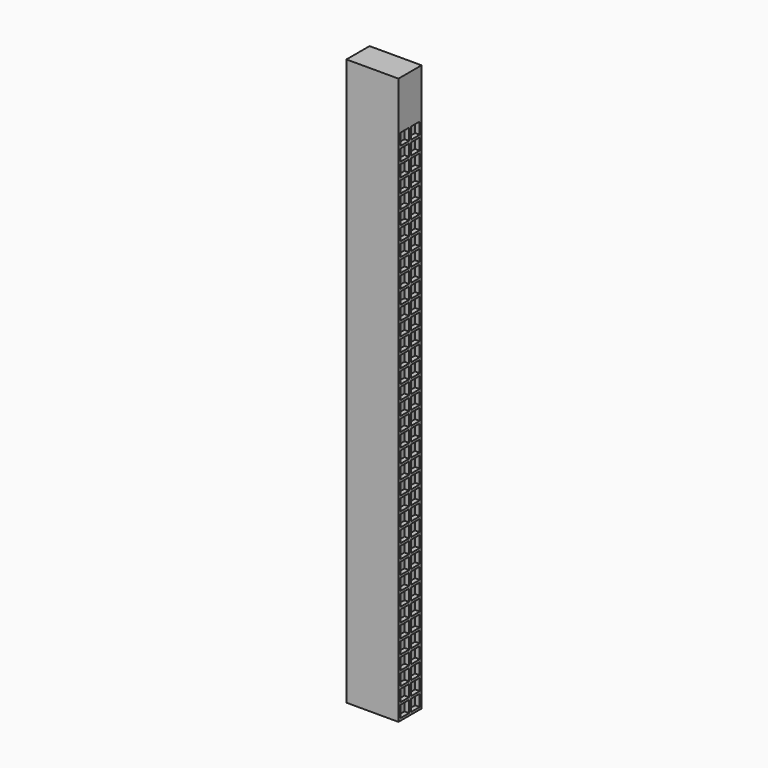
from build123d import *

# Parameters (mm, degrees)
F0_W     = 45
F0_H     = 25
F1_DEPTH = 490
F2_W     = 9.5
F2_H     = 10.108
F3_DEPTH = 4
F4_W     = 9.5
F4_H     = 10.108
F5_DEPTH = 4


with BuildPart() as f1:
    # F0 (on Top) → F1 (new body)
    with BuildSketch(Plane.XY):
        with Locations((22.5, -12.5)):
            Rectangle(F0_W, F0_H)
    extrude(amount=F1_DEPTH)

    # F2 (on face) → F3 (cut)
    with BuildSketch(Plane.YZ.offset(45)):
        with Locations((-18.25, 442.946)):
            Rectangle(F2_W, F2_H)
        with Locations((-6.75, 442.946)):
            Rectangle(F2_W, F2_H)
        with Locations((-6.75, 430.838)):
            Rectangle(F2_W, F2_H)
        with Locations((-18.25, 430.838)):
            Rectangle(F2_W, F2_H)
        with Locations((-6.75, 418.73)):
            Rectangle(F2_W, F2_H)
        with Locations((-18.25, 418.73)):
            Rectangle(F2_W, F2_H)
        with Locations((-6.75, 406.622)):
            Rectangle(F2_W, F2_H)
        with Locations((-18.25, 406.622)):
            Rectangle(F2_W, F2_H)
        with Locations((-6.75, 394.514)):
            Rectangle(F2_W, F2_H)
        with Locations((-18.25, 394.514)):
            Rectangle(F2_W, F2_H)
        with Locations((-6.75, 382.406)):
            Rectangle(F2_W, F2_H)
        with Locations((-18.25, 382.406)):
            Rectangle(F2_W, F2_H)
        with Locations((-6.75, 370.298)):
            Rectangle(F2_W, F2_H)
        with Locations((-18.25, 370.298)):
            Rectangle(F2_W, F2_H)
        with Locations((-6.75, 358.19)):
            Rectangle(F2_W, F2_H)
        with Locations((-18.25, 358.19)):
            Rectangle(F2_W, F2_H)
        with Locations((-6.75, 346.082)):
            Rectangle(F2_W, F2_H)
        with Locations((-18.25, 346.082)):
            Rectangle(F2_W, F2_H)
        with Locations((-6.75, 333.974)):
            Rectangle(F2_W, F2_H)
        with Locations((-18.25, 333.974)):
            Rectangle(F2_W, F2_H)
        with Locations((-6.75, 321.866)):
            Rectangle(F2_W, F2_H)
        with Locations((-18.25, 321.866)):
            Rectangle(F2_W, F2_H)
        with Locations((-6.75, 309.758)):
            Rectangle(F2_W, F2_H)
        with Locations((-18.25, 309.758)):
            Rectangle(F2_W, F2_H)
        with Locations((-6.75, 297.65)):
            Rectangle(F2_W, F2_H)
        with Locations((-18.25, 297.65)):
            Rectangle(F2_W, F2_H)
        with Locations((-6.75, 285.542)):
            Rectangle(F2_W, F2_H)
        with Locations((-18.25, 285.542)):
            Rectangle(F2_W, F2_H)
        with Locations((-6.75, 273.434)):
            Rectangle(F2_W, F2_H)
        with Locations((-18.25, 273.434)):
            Rectangle(F2_W, F2_H)
        with Locations((-6.75, 261.326)):
            Rectangle(F2_W, F2_H)
        with Locations((-18.25, 261.326)):
            Rectangle(F2_W, F2_H)
        with Locations((-6.75, 249.218)):
            Rectangle(F2_W, F2_H)
        with Locations((-18.25, 249.218)):
            Rectangle(F2_W, F2_H)
        with Locations((-6.75, 237.11)):
            Rectangle(F2_W, F2_H)
        with Locations((-18.25, 237.11)):
            Rectangle(F2_W, F2_H)
        with Locations((-6.75, 225.002)):
            Rectangle(F2_W, F2_H)
        with Locations((-18.25, 225.002)):
            Rectangle(F2_W, F2_H)
        with Locations((-6.75, 212.894)):
            Rectangle(F2_W, F2_H)
        with Locations((-18.25, 212.894)):
            Rectangle(F2_W, F2_H)
        with Locations((-6.75, 200.786)):
            Rectangle(F2_W, F2_H)
        with Locations((-18.25, 200.786)):
            Rectangle(F2_W, F2_H)
        with Locations((-6.75, 188.678)):
            Rectangle(F2_W, F2_H)
        with Locations((-18.25, 188.678)):
            Rectangle(F2_W, F2_H)
        with Locations((-6.75, 176.57)):
            Rectangle(F2_W, F2_H)
        with Locations((-18.25, 176.57)):
            Rectangle(F2_W, F2_H)
        with Locations((-6.75, 164.462)):
            Rectangle(F2_W, F2_H)
        with Locations((-18.25, 164.462)):
            Rectangle(F2_W, F2_H)
        with Locations((-6.75, 152.354)):
            Rectangle(F2_W, F2_H)
        with Locations((-18.25, 152.354)):
            Rectangle(F2_W, F2_H)
        with Locations((-6.75, 140.246)):
            Rectangle(F2_W, F2_H)
        with Locations((-18.25, 140.246)):
            Rectangle(F2_W, F2_H)
        with Locations((-6.75, 128.138)):
            Rectangle(F2_W, F2_H)
        with Locations((-18.25, 128.138)):
            Rectangle(F2_W, F2_H)
        with Locations((-6.75, 116.03)):
            Rectangle(F2_W, F2_H)
        with Locations((-18.25, 116.03)):
            Rectangle(F2_W, F2_H)
        with Locations((-6.75, 103.922)):
            Rectangle(F2_W, F2_H)
        with Locations((-18.25, 103.922)):
            Rectangle(F2_W, F2_H)
        with Locations((-6.75, 91.814)):
            Rectangle(F2_W, F2_H)
        with Locations((-18.25, 91.814)):
            Rectangle(F2_W, F2_H)
        with Locations((-6.75, 79.706)):
            Rectangle(F2_W, F2_H)
        with Locations((-18.25, 79.706)):
            Rectangle(F2_W, F2_H)
        with Locations((-6.75, 67.598)):
            Rectangle(F2_W, F2_H)
        with Locations((-18.25, 67.598)):
            Rectangle(F2_W, F2_H)
        with Locations((-6.75, 55.49)):
            Rectangle(F2_W, F2_H)
        with Locations((-18.25, 55.49)):
            Rectangle(F2_W, F2_H)
        with Locations((-6.75, 43.382)):
            Rectangle(F2_W, F2_H)
        with Locations((-18.25, 43.382)):
            Rectangle(F2_W, F2_H)
        with Locations((-6.75, 31.274)):
            Rectangle(F2_W, F2_H)
        with Locations((-18.25, 31.274)):
            Rectangle(F2_W, F2_H)
        with Locations((-6.75, 19.166)):
            Rectangle(F2_W, F2_H)
        with Locations((-18.25, 19.166)):
            Rectangle(F2_W, F2_H)
        with Locations((-6.75, 7.058)):
            Rectangle(F2_W, F2_H)
        with Locations((-18.25, 7.058)):
            Rectangle(F2_W, F2_H)
    extrude(amount=-F3_DEPTH, mode=Mode.SUBTRACT)

    # F4 (on face) → F5 (cut)
    with BuildSketch(Plane(origin=(0, 0, 0), x_dir=(0, -1, 0), z_dir=(-1, 0, 0))):
        with Locations((6.637584, 442.942)):
            Rectangle(F4_W, F4_H)
        with Locations((18.137584, 442.942)):
            Rectangle(F4_W, F4_H)
        with Locations((18.137584, 430.834)):
            Rectangle(F4_W, F4_H)
        with Locations((6.637584, 430.834)):
            Rectangle(F4_W, F4_H)
        with Locations((18.137584, 418.726)):
            Rectangle(F4_W, F4_H)
        with Locations((6.637584, 418.726)):
            Rectangle(F4_W, F4_H)
        with Locations((18.137584, 406.618)):
            Rectangle(F4_W, F4_H)
        with Locations((6.637584, 406.618)):
            Rectangle(F4_W, F4_H)
        with Locations((18.137584, 394.51)):
            Rectangle(F4_W, F4_H)
        with Locations((6.637584, 394.51)):
            Rectangle(F4_W, F4_H)
        with Locations((18.137584, 382.402)):
            Rectangle(F4_W, F4_H)
        with Locations((6.637584, 382.402)):
            Rectangle(F4_W, F4_H)
        with Locations((18.137584, 370.294)):
            Rectangle(F4_W, F4_H)
        with Locations((6.637584, 370.294)):
            Rectangle(F4_W, F4_H)
        with Locations((18.137584, 358.186)):
            Rectangle(F4_W, F4_H)
        with Locations((6.637584, 358.186)):
            Rectangle(F4_W, F4_H)
        with Locations((18.137584, 346.078)):
            Rectangle(F4_W, F4_H)
        with Locations((6.637584, 346.078)):
            Rectangle(F4_W, F4_H)
        with Locations((18.137584, 333.97)):
            Rectangle(F4_W, F4_H)
        with Locations((6.637584, 333.97)):
            Rectangle(F4_W, F4_H)
        with Locations((18.137584, 321.862)):
            Rectangle(F4_W, F4_H)
        with Locations((6.637584, 321.862)):
            Rectangle(F4_W, F4_H)
        with Locations((18.137584, 309.754)):
            Rectangle(F4_W, F4_H)
        with Locations((6.637584, 309.754)):
            Rectangle(F4_W, F4_H)
        with Locations((18.137584, 297.646)):
            Rectangle(F4_W, F4_H)
        with Locations((6.637584, 297.646)):
            Rectangle(F4_W, F4_H)
        with Locations((18.137584, 285.538)):
            Rectangle(F4_W, F4_H)
        with Locations((6.637584, 285.538)):
            Rectangle(F4_W, F4_H)
        with Locations((18.137584, 273.43)):
            Rectangle(F4_W, F4_H)
        with Locations((6.637584, 273.43)):
            Rectangle(F4_W, F4_H)
        with Locations((18.137584, 261.322)):
            Rectangle(F4_W, F4_H)
        with Locations((6.637584, 261.322)):
            Rectangle(F4_W, F4_H)
        with Locations((18.137584, 249.214)):
            Rectangle(F4_W, F4_H)
        with Locations((6.637584, 249.214)):
            Rectangle(F4_W, F4_H)
        with Locations((18.137584, 237.106)):
            Rectangle(F4_W, F4_H)
        with Locations((6.637584, 237.106)):
            Rectangle(F4_W, F4_H)
        with Locations((18.137584, 224.998)):
            Rectangle(F4_W, F4_H)
        with Locations((6.637584, 224.998)):
            Rectangle(F4_W, F4_H)
        with Locations((18.137584, 212.89)):
            Rectangle(F4_W, F4_H)
        with Locations((6.637584, 212.89)):
            Rectangle(F4_W, F4_H)
        with Locations((18.137584, 200.782)):
            Rectangle(F4_W, F4_H)
        with Locations((6.637584, 200.782)):
            Rectangle(F4_W, F4_H)
        with Locations((18.137584, 188.674)):
            Rectangle(F4_W, F4_H)
        with Locations((6.637584, 188.674)):
            Rectangle(F4_W, F4_H)
        with Locations((18.137584, 176.566)):
            Rectangle(F4_W, F4_H)
        with Locations((6.637584, 176.566)):
            Rectangle(F4_W, F4_H)
        with Locations((18.137584, 164.458)):
            Rectangle(F4_W, F4_H)
        with Locations((6.637584, 164.458)):
            Rectangle(F4_W, F4_H)
        with Locations((18.137584, 152.35)):
            Rectangle(F4_W, F4_H)
        with Locations((6.637584, 152.35)):
            Rectangle(F4_W, F4_H)
        with Locations((18.137584, 140.242)):
            Rectangle(F4_W, F4_H)
        with Locations((6.637584, 140.242)):
            Rectangle(F4_W, F4_H)
        with Locations((18.137584, 128.134)):
            Rectangle(F4_W, F4_H)
        with Locations((6.637584, 128.134)):
            Rectangle(F4_W, F4_H)
        with Locations((18.137584, 116.026)):
            Rectangle(F4_W, F4_H)
        with Locations((6.637584, 116.026)):
            Rectangle(F4_W, F4_H)
        with Locations((18.137584, 103.918)):
            Rectangle(F4_W, F4_H)
        with Locations((6.637584, 103.918)):
            Rectangle(F4_W, F4_H)
        with Locations((18.137584, 91.81)):
            Rectangle(F4_W, F4_H)
        with Locations((6.637584, 91.81)):
            Rectangle(F4_W, F4_H)
        with Locations((18.137584, 79.702)):
            Rectangle(F4_W, F4_H)
        with Locations((6.637584, 79.702)):
            Rectangle(F4_W, F4_H)
        with Locations((18.137584, 67.594)):
            Rectangle(F4_W, F4_H)
        with Locations((6.637584, 67.594)):
            Rectangle(F4_W, F4_H)
        with Locations((18.137584, 55.486)):
            Rectangle(F4_W, F4_H)
        with Locations((6.637584, 55.486)):
            Rectangle(F4_W, F4_H)
        with Locations((18.137584, 43.378)):
            Rectangle(F4_W, F4_H)
        with Locations((6.637584, 43.378)):
            Rectangle(F4_W, F4_H)
        with Locations((18.137584, 31.27)):
            Rectangle(F4_W, F4_H)
        with Locations((6.637584, 31.27)):
            Rectangle(F4_W, F4_H)
        with Locations((18.137584, 19.162)):
            Rectangle(F4_W, F4_H)
        with Locations((6.637584, 19.162)):
            Rectangle(F4_W, F4_H)
        with Locations((18.137584, 7.054)):
            Rectangle(F4_W, F4_H)
        with Locations((6.637584, 7.054)):
            Rectangle(F4_W, F4_H)
    extrude(amount=-F5_DEPTH, mode=Mode.SUBTRACT)


solid = f1.part
